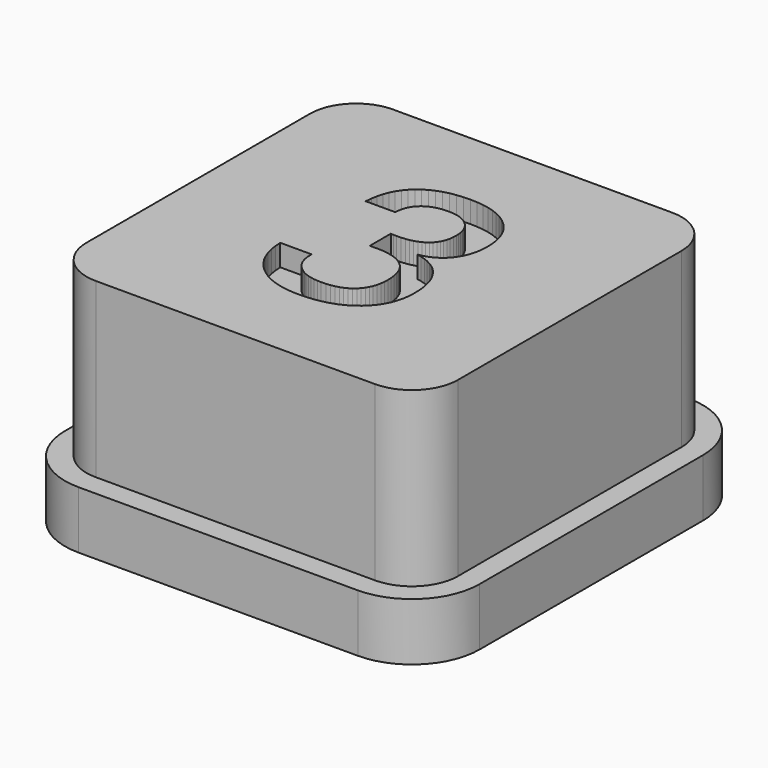
from build123d import *

# Parameters (mm, degrees)
F1_DEPTH = 2
F2_DEPTH = 8
F3_DEPTH = 7.25


with BuildPart() as f1:
    # F0 (on Top) → F1 (new body)
    with BuildSketch(Plane.XY):
        with BuildLine():
            Line((4.85, 7.2), (-4.85, 7.2))
            ThreePointArc((-4.85, 7.2), (-6.511701, 6.511701), (-7.2, 4.85))
            Line((-7.2, 4.85), (-7.2, -4.85))
            ThreePointArc((-7.2, -4.85), (-6.511701, -6.511701), (-4.85, -7.2))
            Line((-4.85, -7.2), (4.85, -7.2))
            ThreePointArc((4.85, -7.2), (6.511701, -6.511701), (7.2, -4.85))
            Line((7.2, -4.85), (7.2, 4.85))
            ThreePointArc((7.2, 4.85), (6.511701, 6.511701), (4.85, 7.2))
        make_face()
        with BuildLine():
            ThreePointArc((6.45, -4.85), (5.981371, -5.981371), (4.85, -6.45))
            Line((4.85, -6.45), (-4.85, -6.45))
            ThreePointArc((-4.85, -6.45), (-5.981371, -5.981371), (-6.45, -4.85))
            Line((-6.45, -4.85), (-6.45, 4.85))
            ThreePointArc((-6.45, 4.85), (-5.981371, 5.981371), (-4.85, 6.45))
            Line((-4.85, 6.45), (4.85, 6.45))
            ThreePointArc((4.85, 6.45), (5.981371, 5.981371), (6.45, 4.85))
            Line((6.45, 4.85), (6.45, -4.85))
        make_face(mode=Mode.SUBTRACT)
    extrude(amount=F1_DEPTH)

    # F0 (on Top) → F2 (join)
    with BuildSketch(Plane.XY):
        with BuildLine():
            Line((-4.85, -6.45), (4.85, -6.45))
            ThreePointArc((4.85, -6.45), (5.981371, -5.981371), (6.45, -4.85))
            Line((6.45, -4.85), (6.45, 4.85))
            ThreePointArc((6.45, 4.85), (5.981371, 5.981371), (4.85, 6.45))
            Line((4.85, 6.45), (-4.85, 6.45))
            ThreePointArc((-4.85, 6.45), (-5.981371, 5.981371), (-6.45, 4.85))
            Line((-6.45, 4.85), (-6.45, -4.85))
            ThreePointArc((-6.45, -4.85), (-5.981371, -5.981371), (-4.85, -6.45))
        make_face()
        Polygon((-2.328925, -1.802558), (-2.345287, -1.573087), (-1.255123, -1.573087), (-1.255123, -1.630464), (-1.249968, -1.748132), (-1.234503, -1.859674), (-1.208728, -1.965089), (-1.172643, -2.064378), (-1.126249, -2.157541), (-1.069544, -2.244578), (-1.002529, -2.325489), (-0.925205, -2.400273), (-0.839065, -2.467512), (-0.745603, -2.525786), (-0.644819, -2.575094), (-0.536714, -2.615437), (-0.421288, -2.646815), (-0.29854, -2.669228), (-0.16847, -2.682676), (-0.031079, -2.687158), (0.123383, -2.68219), (0.268805, -2.667286), (0.405188, -2.642445), (0.532531, -2.607667), (0.650834, -2.562954), (0.760096, -2.508303), (0.86032, -2.443717), (0.951503, -2.369194), (1.03275, -2.285332), (1.103163, -2.19273), (1.162744, -2.091386), (1.211492, -1.981301), (1.249408, -1.862475), (1.27649, -1.734909), (1.292739, -1.598601), (1.298156, -1.453552), (1.29259, -1.301779), (1.275892, -1.159644), (1.248063, -1.027146), (1.209102, -0.904286), (1.159009, -0.791064), (1.097784, -0.687479), (1.025428, -0.593531), (0.94194, -0.509221), (0.847395, -0.434698), (0.741867, -0.370112), (0.625358, -0.315462), (0.497865, -0.270748), (0.359391, -0.235971), (0.209934, -0.21113), (0.049495, -0.196225), (-0.121926, -0.191257), (-0.227117, -0.196038), (-0.33709, -0.20082), (-0.33709, 0.717213), (-0.23429, 0.712432), (-0.131489, 0.70765), (0.019126, 0.711722), (0.160178, 0.723937), (0.291667, 0.744295), (0.413593, 0.772797), (0.525956, 0.809442), (0.628757, 0.854231), (0.721995, 0.907163), (0.805669, 0.968238), (0.879632, 1.037232), (0.943733, 1.113922), (0.997972, 1.198306), (1.04235, 1.290386), (1.076866, 1.390161), (1.10152, 1.497631), (1.116312, 1.612796), (1.121243, 1.735656), (1.116798, 1.845143), (1.103462, 1.948877), (1.081236, 2.046859), (1.05012, 2.139088), (1.010112, 2.225565), (0.961215, 2.306288), (0.903427, 2.38126), (0.836749, 2.450478), (0.762599, 2.512674), (0.682398, 2.566577), (0.596146, 2.612187), (0.503842, 2.649505), (0.405487, 2.678529), (0.30108, 2.699261), (0.190622, 2.711701), (0.074112, 2.715847), (-0.050317, 2.711999), (-0.167798, 2.700457), (-0.278331, 2.681219), (-0.381916, 2.654286), (-0.478553, 2.619658), (-0.568242, 2.577335), (-0.650983, 2.527317), (-0.726776, 2.469604), (-0.794799, 2.404943), (-0.854231, 2.33408), (-0.905071, 2.257017), (-0.947319, 2.173753), (-0.980976, 2.084289), (-1.006041, 1.988623), (-1.022514, 1.886756), (-1.030396, 1.778689), (-2.058402, 1.778689), (-2.038454, 1.99572), (-2.002519, 2.199752), (-1.950596, 2.390785), (-1.882684, 2.568818), (-1.798785, 2.733852), (-1.698899, 2.885886), (-1.583024, 3.024921), (-1.451161, 3.150956), (-1.304506, 3.263021), (-1.144254, 3.360143), (-0.970404, 3.442324), (-0.782958, 3.509563), (-0.581914, 3.56186), (-0.367273, 3.599214), (-0.139035, 3.621627), (0.102801, 3.629098), (0.336829, 3.621254), (0.55838, 3.59772), (0.767455, 3.558498), (0.964054, 3.503586), (1.148176, 3.432985), (1.319822, 3.346696), (1.478991, 3.244717), (1.625683, 3.127049), (1.757359, 2.996008), (1.871478, 2.853911), (1.96804, 2.700756), (2.047046, 2.536544), (2.108494, 2.361275), (2.152386, 2.174949), (2.178722, 1.977566), (2.1875, 1.769126), (2.182532, 1.611376), (2.167627, 1.460873), (2.142786, 1.317618), (2.108009, 1.181609), (2.063295, 1.052846), (2.008645, 0.931331), (1.944058, 0.817063), (1.869536, 0.710041), (1.786197, 0.61176), (1.695163, 0.523715), (1.596434, 0.445905), (1.49001, 0.37833), (1.375891, 0.32099), (1.254077, 0.273886), (1.124568, 0.237017), (0.987363, 0.210383), (1.14855, 0.17512), (1.299799, 0.129098), (1.441113, 0.072319), (1.57249, 0.004781), (1.69393, -0.073514), (1.805435, -0.162568), (1.907002, -0.26238), (1.998634, -0.372951), (2.079881, -0.493607), (2.150295, -0.623677), (2.209876, -0.76316), (2.258624, -0.912056), (2.296539, -1.070366), (2.323621, -1.238089), (2.33987, -1.415226), (2.345287, -1.601776), (2.335089, -1.828856), (2.304495, -2.043908), (2.253506, -2.246932), (2.182121, -2.437927), (2.09034, -2.616894), (1.978163, -2.783833), (1.845591, -2.938743), (1.692623, -3.081626), (1.522247, -3.20994), (1.337453, -3.321145), (1.13824, -3.415242), (0.924607, -3.49223), (0.696556, -3.55211), (0.454086, -3.594881), (0.197196, -3.620544), (-0.074112, -3.629098), (-0.320206, -3.620395), (-0.554047, -3.594284), (-0.775636, -3.550765), (-0.984973, -3.489839), (-1.182057, -3.411506), (-1.366889, -3.315766), (-1.539468, -3.202618), (-1.699795, -3.072063), (-1.844807, -2.92679), (-1.97144, -2.769489), (-2.079694, -2.600159), (-2.16957, -2.418801), (-2.241067, -2.225415), (-2.294185, -2.020001), align=None, mode=Mode.SUBTRACT)
    extrude(amount=F2_DEPTH)

    # F0 (on Top) → F3 (join)
    with BuildSketch(Plane.XY):
        Polygon((-1.255123, -1.573087), (-2.345287, -1.573087), (-2.328925, -1.802558), (-2.294185, -2.020001), (-2.241067, -2.225415), (-2.16957, -2.418801), (-2.079694, -2.600159), (-1.97144, -2.769489), (-1.844807, -2.92679), (-1.699795, -3.072063), (-1.539468, -3.202618), (-1.366889, -3.315766), (-1.182057, -3.411506), (-0.984973, -3.489839), (-0.775636, -3.550765), (-0.554047, -3.594284), (-0.320206, -3.620395), (-0.074112, -3.629098), (0.197196, -3.620544), (0.454086, -3.594881), (0.696556, -3.55211), (0.924607, -3.49223), (1.13824, -3.415242), (1.337453, -3.321145), (1.522247, -3.20994), (1.692623, -3.081626), (1.845591, -2.938743), (1.978163, -2.783833), (2.09034, -2.616894), (2.182121, -2.437927), (2.253506, -2.246932), (2.304495, -2.043908), (2.335089, -1.828856), (2.345287, -1.601776), (2.33987, -1.415226), (2.323621, -1.238089), (2.296539, -1.070366), (2.258624, -0.912056), (2.209876, -0.76316), (2.150295, -0.623677), (2.079881, -0.493607), (1.998634, -0.372951), (1.907002, -0.26238), (1.805435, -0.162568), (1.69393, -0.073514), (1.57249, 0.004781), (1.441113, 0.072319), (1.299799, 0.129098), (1.14855, 0.17512), (0.987363, 0.210383), (1.124568, 0.237017), (1.254077, 0.273886), (1.375891, 0.32099), (1.49001, 0.37833), (1.596434, 0.445905), (1.695163, 0.523715), (1.786197, 0.61176), (1.869536, 0.710041), (1.944058, 0.817063), (2.008645, 0.931331), (2.063295, 1.052846), (2.108009, 1.181609), (2.142786, 1.317618), (2.167627, 1.460873), (2.182532, 1.611376), (2.1875, 1.769126), (2.178722, 1.977566), (2.152386, 2.174949), (2.108494, 2.361275), (2.047046, 2.536544), (1.96804, 2.700756), (1.871478, 2.853911), (1.757359, 2.996008), (1.625683, 3.127049), (1.478991, 3.244717), (1.319822, 3.346696), (1.148176, 3.432985), (0.964054, 3.503586), (0.767455, 3.558498), (0.55838, 3.59772), (0.336829, 3.621254), (0.102801, 3.629098), (-0.139035, 3.621627), (-0.367273, 3.599214), (-0.581914, 3.56186), (-0.782958, 3.509563), (-0.970404, 3.442324), (-1.144254, 3.360143), (-1.304506, 3.263021), (-1.451161, 3.150956), (-1.583024, 3.024921), (-1.698899, 2.885886), (-1.798785, 2.733852), (-1.882684, 2.568818), (-1.950596, 2.390785), (-2.002519, 2.199752), (-2.038454, 1.99572), (-2.058402, 1.778689), (-1.030396, 1.778689), (-1.022514, 1.886756), (-1.006041, 1.988623), (-0.980976, 2.084289), (-0.947319, 2.173753), (-0.905071, 2.257017), (-0.854231, 2.33408), (-0.794799, 2.404943), (-0.726776, 2.469604), (-0.650983, 2.527317), (-0.568242, 2.577335), (-0.478553, 2.619658), (-0.381916, 2.654286), (-0.278331, 2.681219), (-0.167798, 2.700457), (-0.050317, 2.711999), (0.074112, 2.715847), (0.190622, 2.711701), (0.30108, 2.699261), (0.405487, 2.678529), (0.503842, 2.649505), (0.596146, 2.612187), (0.682398, 2.566577), (0.762599, 2.512674), (0.836749, 2.450478), (0.903427, 2.38126), (0.961215, 2.306288), (1.010112, 2.225565), (1.05012, 2.139088), (1.081236, 2.046859), (1.103462, 1.948877), (1.116798, 1.845143), (1.121243, 1.735656), (1.116312, 1.612796), (1.10152, 1.497631), (1.076866, 1.390161), (1.04235, 1.290386), (0.997972, 1.198306), (0.943733, 1.113922), (0.879632, 1.037232), (0.805669, 0.968238), (0.721995, 0.907163), (0.628757, 0.854231), (0.525956, 0.809442), (0.413593, 0.772797), (0.291667, 0.744295), (0.160178, 0.723937), (0.019126, 0.711722), (-0.131489, 0.70765), (-0.23429, 0.712432), (-0.33709, 0.717213), (-0.33709, -0.20082), (-0.227117, -0.196038), (-0.121926, -0.191257), (0.049495, -0.196225), (0.209934, -0.21113), (0.359391, -0.235971), (0.497865, -0.270748), (0.625358, -0.315462), (0.741867, -0.370112), (0.847395, -0.434698), (0.94194, -0.509221), (1.025428, -0.593531), (1.097784, -0.687479), (1.159009, -0.791064), (1.209102, -0.904286), (1.248063, -1.027146), (1.275892, -1.159644), (1.29259, -1.301779), (1.298156, -1.453552), (1.292739, -1.598601), (1.27649, -1.734909), (1.249408, -1.862475), (1.211492, -1.981301), (1.162744, -2.091386), (1.103163, -2.19273), (1.03275, -2.285332), (0.951503, -2.369194), (0.86032, -2.443717), (0.760096, -2.508303), (0.650834, -2.562954), (0.532531, -2.607667), (0.405188, -2.642445), (0.268805, -2.667286), (0.123383, -2.68219), (-0.031079, -2.687158), (-0.16847, -2.682676), (-0.29854, -2.669228), (-0.421288, -2.646815), (-0.536714, -2.615437), (-0.644819, -2.575094), (-0.745603, -2.525786), (-0.839065, -2.467512), (-0.925205, -2.400273), (-1.002529, -2.325489), (-1.069544, -2.244578), (-1.126249, -2.157541), (-1.172643, -2.064378), (-1.208728, -1.965089), (-1.234503, -1.859674), (-1.249968, -1.748132), (-1.255123, -1.630464), align=None)
    extrude(amount=F3_DEPTH)


solid = f1.part
